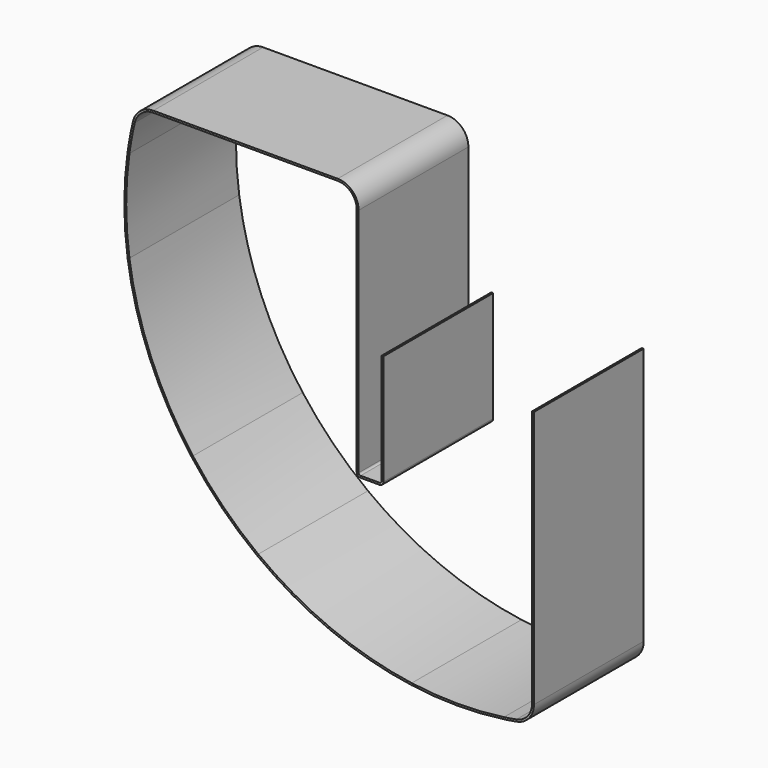
from build123d import *

# Parameters (mm, degrees)
F1_DEPTH = 36


with BuildPart() as f1:
    # F0 (on Front) → F1 (new body)
    with BuildSketch(Plane.XZ):
        with BuildLine():
            Line((20, -13.15), (19.5, -13.15))
            Line((19.5, -13.15), (19.5, -23.15))
            Line((19.5, -23.15), (19.5, -33.15))
            Line((19.5, -33.15), (19.5, -42.15))
            Line((19.5, -42.15), (19.5, -58.15))
            Line((19.5, -58.15), (19.5, -68.15))
            Line((19.5, -68.15), (19.5, -80.744878))
            ThreePointArc((19.5, -80.744878), (18.335243, -83.952823), (15.383637, -85.666177))
            ThreePointArc((15.383637, -85.666177), (13.764734, -85.941113), (12.14093, -86.185444))
            ThreePointArc((12.14093, -86.185444), (0.03084, -87.035568), (-12.079689, -86.191704))
            ThreePointArc((-12.079689, -86.191704), (-33.275766, -80.416957), (-52.349552, -69.516861))
            ThreePointArc((-52.349552, -69.516861), (-61.509935, -61.553861), (-69.472934, -52.393478))
            ThreePointArc((-69.472934, -52.393478), (-80.370753, -33.325193), (-86.146122, -12.135407))
            ThreePointArc((-86.146122, -12.135407), (-86.991645, -0.031106), (-86.14488, 12.073108))
            ThreePointArc((-86.14488, 12.073108), (-85.525862, 15.867188), (-84.739841, 19.630218))
            ThreePointArc((-84.739841, 19.630218), (-82.979634, 22.414785), (-79.869255, 23.5))
            Line((-79.869255, 23.5), (-60.684627, 23.5))
            Line((-60.684627, 23.5), (-50.684627, 23.5))
            Line((-50.684627, 23.5), (-31.5, 23.5))
            ThreePointArc((-31.5, 23.5), (-27.964466, 22.035534), (-26.5, 18.5))
            Line((-26.5, 18.5), (-26.5, 5))
            Line((-26.5, 5), (-26.5, -5))
            Line((-26.5, -5), (-26.5, -23.15))
            Line((-26.5, -23.15), (-26.5, -33.15))
            Line((-26.5, -33.15), (-26.5, -42.15))
            ThreePointArc((-26.5, -42.15), (-26.207107, -42.857107), (-25.5, -43.15))
            Line((-25.5, -43.15), (-20.5, -43.15))
            ThreePointArc((-20.5, -43.15), (-19.792893, -42.857107), (-19.5, -42.15))
            Line((-19.5, -42.15), (-19.5, -33.15))
            Line((-19.5, -33.15), (-19.5, -23.15))
            Line((-19.5, -23.15), (-19.5, -13.15))
            Line((-19.5, -13.15), (-20, -13.15))
            Line((-20, -13.15), (-20, -23.15))
            Line((-20, -23.15), (-20, -33.15))
            Line((-20, -33.15), (-20, -42.15))
            ThreePointArc((-20, -42.15), (-20.146447, -42.503553), (-20.5, -42.65))
            Line((-20.5, -42.65), (-25.5, -42.65))
            ThreePointArc((-25.5, -42.65), (-25.853553, -42.503553), (-26, -42.15))
            Line((-26, -42.15), (-26, -33.15))
            Line((-26, -33.15), (-26, -23.15))
            Line((-26, -23.15), (-26, -5))
            Line((-26, -5), (-26, 5))
            Line((-26, 5), (-26, 18.5))
            ThreePointArc((-26, 18.5), (-27.610913, 22.389087), (-31.5, 24))
            Line((-31.5, 24), (-50.684627, 24))
            Line((-50.684627, 24), (-60.684627, 24))
            Line((-60.684627, 24), (-79.869255, 24))
            ThreePointArc((-79.869255, 24), (-83.290671, 22.806264), (-85.226899, 19.74324))
            ThreePointArc((-85.226899, 19.74324), (-86.017438, 15.958581), (-86.640014, 12.142694))
            ThreePointArc((-86.640014, 12.142694), (-87.486776, -0.030758), (-86.631454, -12.203613))
            Line((-86.631454, -12.203613), (-86.641257, -12.204991))
            ThreePointArc((-86.641257, -12.204991), (-80.832693, -33.516534), (-69.872252, -52.694386))
            ThreePointArc((-69.872252, -52.694386), (-61.863488, -61.907415), (-52.650459, -69.916178))
            ThreePointArc((-52.650459, -69.916178), (-33.467106, -80.878898), (-12.149271, -86.686838))
            ThreePointArc((-12.149271, -86.686838), (0.030844, -87.535568), (12.210521, -86.680578))
            ThreePointArc((12.210521, -86.680578), (13.843725, -86.434834), (15.472001, -86.158307))
            ThreePointArc((15.472001, -86.158307), (18.718768, -84.273617), (20, -80.744878))
            Line((20, -80.744878), (20, -68.15))
            Line((20, -68.15), (20, -58.15))
            Line((20, -58.15), (20, -33.15))
            Line((20, -33.15), (20, -23.15))
            Line((20, -23.15), (20, -13.15))
        make_face()
    extrude(amount=F1_DEPTH)


solid = f1.part
